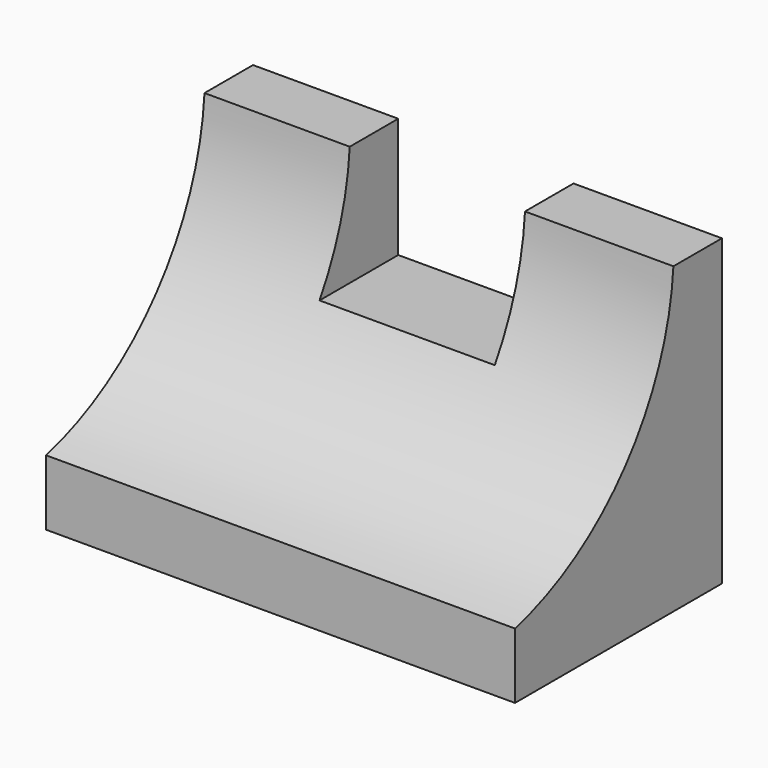
from build123d import *

# Parameters (mm, degrees)
F0_W     = 92.1045392752
F0_H     = 59.6973858774
F1_DEPTH = 25.4
F2_DEPTH = 25.4
F4_W     = 34.4229061157
F4_H     = 23.5688388348
F5_DEPTH = 70.612
F6_DEPTH = 99.568


with BuildPart() as f1:
    # F0 (on Front) → F1 (new body)
    with BuildSketch(Plane.XZ):
        with Locations((-26.6700014472, 29.8486929387)):
            Rectangle(F0_W, F0_H)
    extrude(amount=F1_DEPTH)

    # F2 (add): a face of the model
    f2_faces = [f1.faces().sort_by_distance(p)[0] for p in [
        (-26.6700014472, 0, 29.8486929387),
    ]]
    extrude(f2_faces, amount=F2_DEPTH)

    # F4 (on face) → F5 (cut)
    with BuildSketch(Plane.XZ.offset(25.4)):
        with Locations((-26.9801160321, 47.91296646)):
            Rectangle(F4_W, F4_H)
    extrude(amount=-F5_DEPTH, mode=Mode.SUBTRACT)

    # F3 (on face) → F6 (cut)
    with BuildSketch(Plane.YZ.offset(19.3822681904)):
        with BuildLine():
            Line((-25.4, 59.6973858774), (-25.4, 12.8698255867))
            ThreePointArc((-25.4, 12.8698255867), (1.6694190997, 29.9515872227), (13.4900575504, 59.6973858774))
            Line((13.4900575504, 59.6973858774), (-25.4, 59.6973858774))
        make_face()
    extrude(amount=-F6_DEPTH, mode=Mode.SUBTRACT)


solid = f1.part
